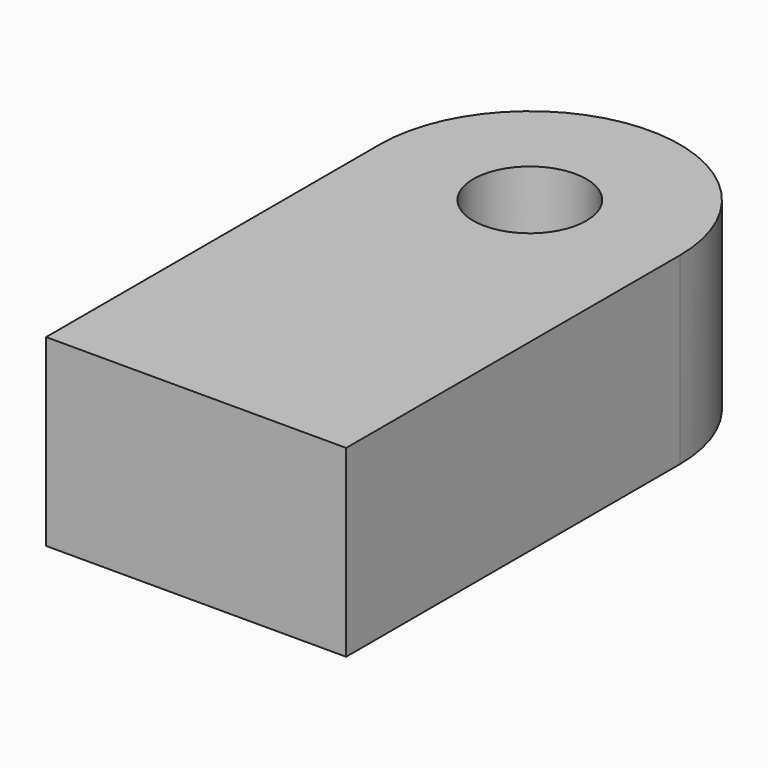
from build123d import *

# Parameters (mm, degrees)
F0_R     = 9.765113
F1_DEPTH = 31.75


with BuildPart() as f1:
    # F0 (on Top) → F1 (new body)
    with BuildSketch(Plane.XY):
        with BuildLine():
            Line((-25.908, -36.009744), (25.908, -36.009744))
            Line((25.908, -36.009744), (25.908, 36.009744))
            ThreePointArc((25.908, 36.009744), (0, 61.917744), (-25.908, 36.009744))
            Line((-25.908, 36.009744), (-25.908, -36.009744))
        make_face()
        with Locations((0, 36.009744)):
            Circle(F0_R, mode=Mode.SUBTRACT)
    extrude(amount=F1_DEPTH)


solid = f1.part
